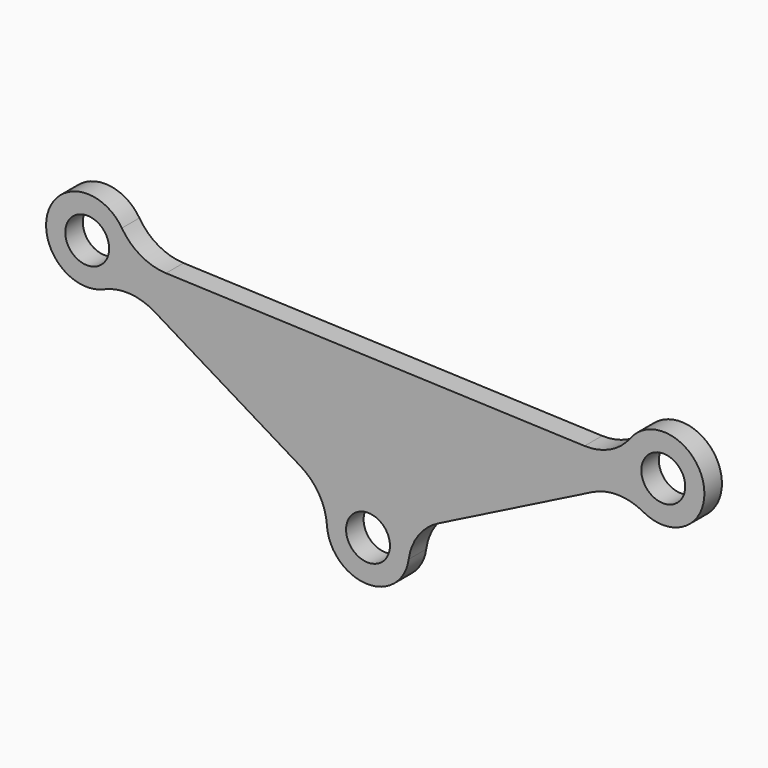
from build123d import *

# Parameters (mm, degrees)
F0_R     = 4
F1_DEPTH = 4
F2_R     = 10


with BuildPart() as f1:
    # F0 (on Front) → F1 (new body)
    with BuildSketch(Plane.XZ):
        with BuildLine():
            Line((45.775182, -3.757193), (-44.30182, -0.318034))
            ThreePointArc((-44.30182, -0.318034), (-58.973605, 2.172254), (-45.382674, -3.889875))
            Line((-45.382674, -3.889875), (-6.995826, -27.176016))
            ThreePointArc((-6.995826, -27.176016), (-0.877629, -38.560119), (6.114182, -27.69068))
            Line((6.114182, -27.69068), (46.526053, -7.325404))
            ThreePointArc((46.526053, -7.325404), (60.608987, -2.498774), (45.775182, -3.757193))
        make_face()
        with Locations((-0.583426, -31.065892)):
            Circle(F0_R, mode=Mode.SUBTRACT)
        with Locations((-51.795074, 0)):
            Circle(F0_R, mode=Mode.SUBTRACT)
        with Locations((53.269726, -4.0432)):
            Circle(F0_R, mode=Mode.SUBTRACT)
    extrude(amount=F1_DEPTH)

    # F2
    f2_edges = [f1.edges().sort_by_distance(p)[0] for p in [
        (-44.30182, -2, -0.318034),
        (45.775182, -2, -3.757193),
        (46.526053, -2, -7.325404),
        (6.114182, -2, -27.69068),
        (-6.995826, -2, -27.176016),
        (-45.382674, -2, -3.889875),
    ]]
    fillet(f2_edges, radius=F2_R)


solid = f1.part
